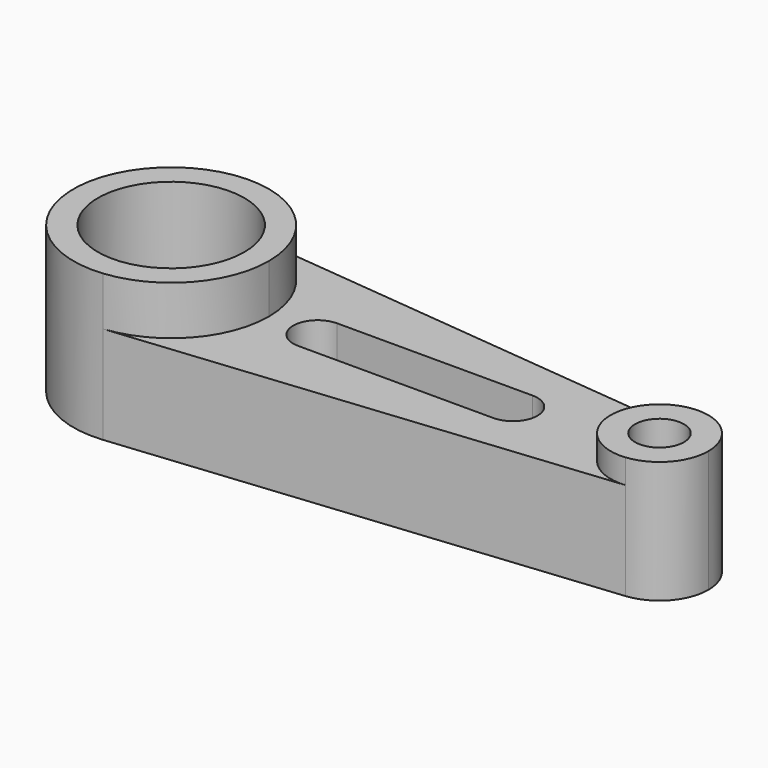
from build123d import *

# Parameters (mm, degrees)
F1_DEPTH = 25.4
F0_R     = 19.05
F2_DEPTH = 38.1
F0_R_2   = 6.35
F3_DEPTH = 31.75


with BuildPart() as f1:
    # F0 (on Top) → F1 (new body)
    with BuildSketch(Plane.XY):
        with BuildLine():
            ThreePointArc((-55.567108, 34.004813), (-39.269963, 25.77097), (-32.707108, 8.732132))
            ThreePointArc((-32.707108, 8.732132), (-39.269963, -8.306706), (-55.567108, -16.540549))
            Line((-55.567108, -16.540549), (70.162892, -3.904209))
            ThreePointArc((70.162892, -3.904209), (56.192892, 8.732132), (70.162892, 21.368472))
            Line((70.162892, 21.368472), (-55.567108, 34.004813))
        make_face()
        with BuildLine():
            ThreePointArc((-20.007108, 2.382132), (-26.357108, 8.732132), (-20.007108, 15.082132))
            Line((-20.007108, 15.082132), (30.792892, 15.082132))
            ThreePointArc((30.792892, 15.082132), (35.28302, 13.22226), (37.142892, 8.732132))
            ThreePointArc((37.142892, 8.732132), (35.28302, 4.242004), (30.792892, 2.382132))
            Line((30.792892, 2.382132), (-20.007108, 2.382132))
        make_face(mode=Mode.SUBTRACT)
    extrude(amount=F1_DEPTH)

    # F0 (on Top) → F2 (join)
    with BuildSketch(Plane.XY):
        with BuildLine():
            ThreePointArc((-55.567108, -16.540549), (-39.269963, -8.306706), (-32.707108, 8.732132))
            ThreePointArc((-32.707108, 8.732132), (-39.269963, 25.77097), (-55.567108, 34.004813))
            ThreePointArc((-55.567108, 34.004813), (-83.507108, 8.732132), (-55.567108, -16.540549))
        make_face()
        with Locations((-58.107108, 8.732132)):
            Circle(F0_R, mode=Mode.SUBTRACT)
    extrude(amount=F2_DEPTH)

    # F0 (on Top) → F3 (join)
    with BuildSketch(Plane.XY):
        with BuildLine():
            ThreePointArc((81.592892, 8.732132), (78.311464, 17.251551), (70.162892, 21.368472))
            ThreePointArc((70.162892, 21.368472), (56.192892, 8.732132), (70.162892, -3.904209))
            ThreePointArc((70.162892, -3.904209), (78.311464, 0.212713), (81.592892, 8.732132))
        make_face()
        with Locations((68.892892, 8.732132)):
            Circle(F0_R_2, mode=Mode.SUBTRACT)
    extrude(amount=F3_DEPTH)


solid = f1.part
